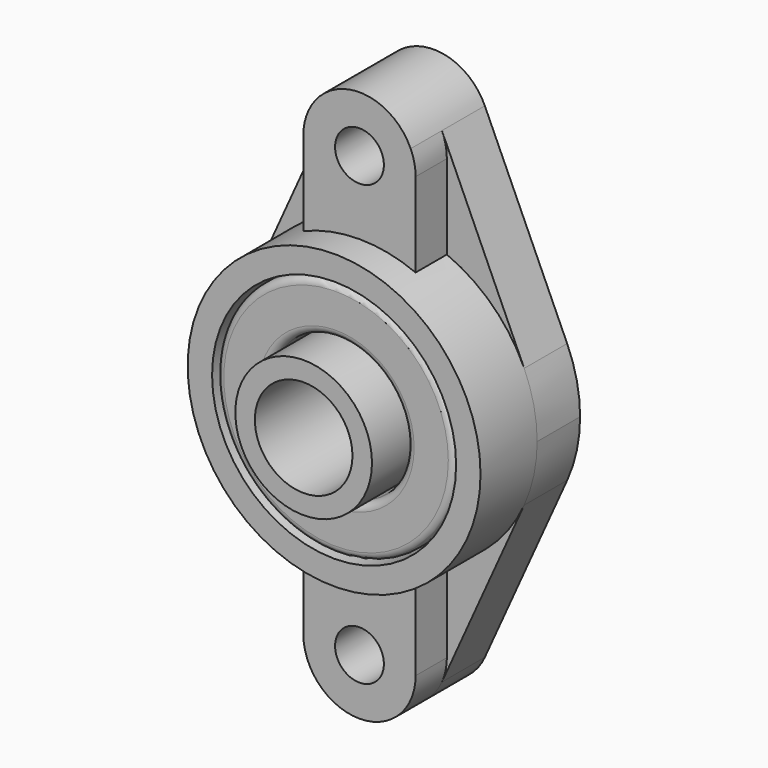
from build123d import *

# Parameters (mm, degrees)
F0_R      = 5
F0_R_2    = 10
F1_DEPTH  = 11
F2_R      = 14
F2_R_2    = 10
F3_DEPTH  = 22.3
F4_R      = 30
F4_R_2    = 25
F5_DEPTH  = 14.5
F6_R      = 5
F7_DEPTH  = 8
F8_R      = 25
F8_R_2    = 10
F9_DEPTH  = 2.3
F10_R     = 24.5
F10_R_2   = 14.5
F11_DEPTH = 14
F12_R     = 1.5


with BuildPart() as f1:
    # F0 (on Front) → F1 (new body)
    with BuildSketch(Plane.XZ):
        with BuildLine():
            ThreePointArc((-10.48323, 49.727778), (-2.417938, 33.757066), (11.5, 45))
            ThreePointArc((11.5, 45), (11.242934, 47.417938), (10.48323, 49.727778))
            ThreePointArc((10.48323, 49.727778), (0, 56.5), (-10.48323, 49.727778))
        make_face()
        with Locations((0, 45)):
            Circle(F0_R, mode=Mode.SUBTRACT)
        with BuildLine():
            ThreePointArc((10.48323, 49.727778), (11.242934, 47.417938), (11.5, 45))
            ThreePointArc((11.5, 45), (-2.417938, 33.757066), (-10.48323, 49.727778))
            Line((-10.48323, 49.727778), (-27.347557, 12.333333))
            ThreePointArc((-27.347557, 12.333333), (0, 30), (27.347557, 12.333333))
            Line((27.347557, 12.333333), (10.48323, 49.727778))
        make_face()
        with BuildLine():
            ThreePointArc((30, 0), (29.329394, 6.307665), (27.347557, 12.333333))
            ThreePointArc((27.347557, 12.333333), (0, 30), (-27.347557, 12.333333))
            ThreePointArc((-27.347557, 12.333333), (-30, 0), (-27.347557, -12.333333))
            ThreePointArc((-27.347557, -12.333333), (0, -30), (27.347557, -12.333333))
            ThreePointArc((27.347557, -12.333333), (29.329394, -6.307665), (30, 0))
        make_face()
        Circle(F0_R_2, mode=Mode.SUBTRACT)
        with BuildLine():
            ThreePointArc((27.347557, -12.333333), (0, -30), (-27.347557, -12.333333))
            Line((-27.347557, -12.333333), (-10.48323, -49.727778))
            ThreePointArc((-10.48323, -49.727778), (-2.417938, -33.757066), (11.5, -45))
            ThreePointArc((11.5, -45), (11.242934, -47.417938), (10.48323, -49.727778))
            Line((10.48323, -49.727778), (27.347557, -12.333333))
        make_face()
        with BuildLine():
            ThreePointArc((11.5, -45), (-2.417938, -33.757066), (-10.48323, -49.727778))
            ThreePointArc((-10.48323, -49.727778), (0, -56.5), (10.48323, -49.727778))
            ThreePointArc((10.48323, -49.727778), (11.242934, -47.417938), (11.5, -45))
        make_face()
        with Locations((0, -45)):
            Circle(F0_R, mode=Mode.SUBTRACT)
    extrude(amount=F1_DEPTH)

    # F2 (on face) → F3 (join)
    with BuildSketch(Plane.XZ.offset(11)):
        Circle(F2_R)
        Circle(F2_R_2, mode=Mode.SUBTRACT)
    extrude(amount=F3_DEPTH)

    # F4 (on face) → F5 (join)
    with BuildSketch(Plane.XZ.offset(11)):
        Circle(F4_R)
        Circle(F4_R_2, mode=Mode.SUBTRACT)
    extrude(amount=F5_DEPTH)

    # F6 (on face) → F7 (join)
    with BuildSketch(Plane.XZ.offset(11)):
        with BuildLine():
            ThreePointArc((-11.5, 45), (0, 33.5), (11.5, 45))
            ThreePointArc((11.5, 45), (11.242934, 47.417938), (10.48323, 49.727778))
            ThreePointArc((10.48323, 49.727778), (0, 56.5), (-10.48323, 49.727778))
            ThreePointArc((-10.48323, 49.727778), (-11.242934, 47.417938), (-11.5, 45))
        make_face()
        with Locations((0, 45)):
            Circle(F6_R, mode=Mode.SUBTRACT)
        with BuildLine():
            Line((11.5, 27.708302), (11.5, 45))
            ThreePointArc((11.5, 45), (0, 33.5), (-11.5, 45))
            Line((-11.5, 45), (-11.5, 27.708302))
            ThreePointArc((-11.5, 27.708302), (0, 30), (11.5, 27.708302))
        make_face()
        with BuildLine():
            ThreePointArc((11.5, -27.708302), (0, -30), (-11.5, -27.708302))
            Line((-11.5, -27.708302), (-11.5, -45))
            ThreePointArc((-11.5, -45), (0, -33.5), (11.5, -45))
            Line((11.5, -45), (11.5, -27.708302))
        make_face()
        with BuildLine():
            ThreePointArc((11.5, -45), (0, -33.5), (-11.5, -45))
            ThreePointArc((-11.5, -45), (0, -56.5), (11.5, -45))
        make_face()
        with Locations((0, -45)):
            Circle(F6_R, mode=Mode.SUBTRACT)
    extrude(amount=F7_DEPTH)

    # F8 (on face) → F9 (cut)
    with BuildSketch(Plane(origin=(0, 0, 0), x_dir=(-1, 0, 0), z_dir=(0, 1, 0))):
        Circle(F8_R)
        Circle(F8_R_2, mode=Mode.SUBTRACT)
    extrude(amount=-F9_DEPTH, mode=Mode.SUBTRACT)

    # F10 (on face) → F11 (join)
    with BuildSketch(Plane.XZ.offset(11)):
        Circle(F10_R)
        Circle(F10_R_2, mode=Mode.SUBTRACT)
    extrude(amount=F11_DEPTH)

    # F12
    f12_edges = [f1.edges().sort_by_distance(p)[0] for p in [
        (-24.5, -25, 0),
        (-14.5, -25, 0),
    ]]
    fillet(f12_edges, radius=F12_R)


solid = f1.part
